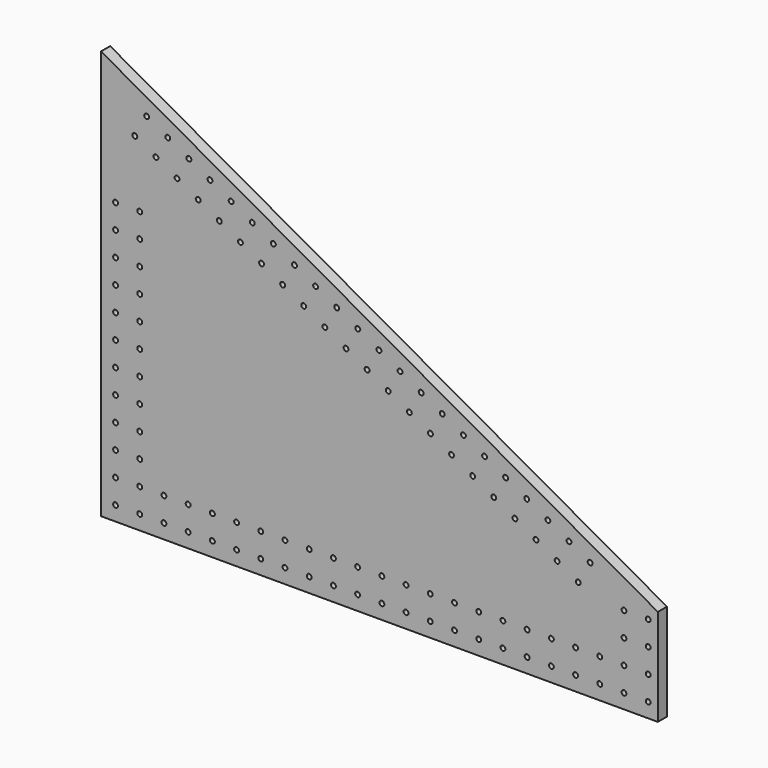
from build123d import *

# Parameters (mm, degrees)
F1_DEPTH = 12
F2_R     = 2.5527
F3_DEPTH = 508


with BuildPart() as f1:
    # F0 (on Front) → F1 (new body)
    with BuildSketch(Plane.XZ):
        Polygon((511.232538, -258.696949), (-72.967462, 69.018931), (-72.967462, -360.296949), (511.232538, -360.296949), align=None)
    extrude(amount=F1_DEPTH)

    # F2 (on face) → F3 (cut)
    with BuildSketch(Plane.XZ.offset(12)):
        with Locations((-57.714762, -345.044249)):
            Circle(F2_R)
        with Locations((-57.714762, -319.644249)):
            Circle(F2_R)
        with Locations((-57.714762, -294.244249)):
            Circle(F2_R)
        with Locations((-57.714762, -268.844249)):
            Circle(F2_R)
        with Locations((-57.714762, -243.444249)):
            Circle(F2_R)
        with Locations((-57.714762, -218.044249)):
            Circle(F2_R)
        with Locations((-57.714762, -192.644249)):
            Circle(F2_R)
        with Locations((-57.714762, -167.244249)):
            Circle(F2_R)
        with Locations((-57.714762, -141.844249)):
            Circle(F2_R)
        with Locations((-57.714762, -116.444249)):
            Circle(F2_R)
        with Locations((-57.714762, -91.044249)):
            Circle(F2_R)
        with Locations((-57.714762, -65.644249)):
            Circle(F2_R)
        with Locations((-32.314762, -345.044249)):
            Circle(F2_R)
        with Locations((-32.314762, -319.644249)):
            Circle(F2_R)
        with Locations((-32.314762, -294.244249)):
            Circle(F2_R)
        with Locations((-32.314762, -268.844249)):
            Circle(F2_R)
        with Locations((-32.314762, -243.444249)):
            Circle(F2_R)
        with Locations((-32.314762, -218.044249)):
            Circle(F2_R)
        with Locations((-32.314762, -192.644249)):
            Circle(F2_R)
        with Locations((-32.314762, -167.244249)):
            Circle(F2_R)
        with Locations((-32.314762, -141.844249)):
            Circle(F2_R)
        with Locations((-32.314762, -116.444249)):
            Circle(F2_R)
        with Locations((-32.314762, -91.044249)):
            Circle(F2_R)
        with Locations((-32.314762, -65.644249)):
            Circle(F2_R)
        with Locations((-6.914762, -319.644249)):
            Circle(F2_R)
        with Locations((-6.914762, -345.044249)):
            Circle(F2_R)
        with Locations((18.485238, -319.644249)):
            Circle(F2_R)
        with Locations((18.485238, -345.044249)):
            Circle(F2_R)
        with Locations((43.885238, -319.644249)):
            Circle(F2_R)
        with Locations((43.885238, -345.044249)):
            Circle(F2_R)
        with Locations((69.285238, -319.644249)):
            Circle(F2_R)
        with Locations((69.285238, -345.044249)):
            Circle(F2_R)
        with Locations((94.685238, -319.644249)):
            Circle(F2_R)
        with Locations((94.685238, -345.044249)):
            Circle(F2_R)
        with Locations((120.085238, -319.644249)):
            Circle(F2_R)
        with Locations((120.085238, -345.044249)):
            Circle(F2_R)
        with Locations((145.485238, -319.644249)):
            Circle(F2_R)
        with Locations((145.485238, -345.044249)):
            Circle(F2_R)
        with Locations((170.885238, -319.644249)):
            Circle(F2_R)
        with Locations((170.885238, -345.044249)):
            Circle(F2_R)
        with Locations((196.285238, -319.644249)):
            Circle(F2_R)
        with Locations((196.285238, -345.044249)):
            Circle(F2_R)
        with Locations((221.685238, -319.644249)):
            Circle(F2_R)
        with Locations((221.685238, -345.044249)):
            Circle(F2_R)
        with Locations((247.085238, -319.644249)):
            Circle(F2_R)
        with Locations((247.085238, -345.044249)):
            Circle(F2_R)
        with Locations((272.485238, -319.644249)):
            Circle(F2_R)
        with Locations((272.485238, -345.044249)):
            Circle(F2_R)
        with Locations((297.885238, -319.644249)):
            Circle(F2_R)
        with Locations((297.885238, -345.044249)):
            Circle(F2_R)
        with Locations((323.285238, -319.644249)):
            Circle(F2_R)
        with Locations((323.285238, -345.044249)):
            Circle(F2_R)
        with Locations((348.685238, -319.644249)):
            Circle(F2_R)
        with Locations((348.685238, -345.044249)):
            Circle(F2_R)
        with Locations((374.085238, -319.644249)):
            Circle(F2_R)
        with Locations((374.085238, -345.044249)):
            Circle(F2_R)
        with Locations((399.485238, -319.644249)):
            Circle(F2_R)
        with Locations((399.485238, -345.044249)):
            Circle(F2_R)
        with Locations((424.885238, -319.644249)):
            Circle(F2_R)
        with Locations((424.885238, -345.044249)):
            Circle(F2_R)
        with Locations((450.285238, -319.644249)):
            Circle(F2_R)
        with Locations((450.285238, -345.044249)):
            Circle(F2_R)
        with Locations((475.685238, -319.644249)):
            Circle(F2_R)
        with Locations((475.685238, -345.044249)):
            Circle(F2_R)
        with Locations((-25.048427, 24.649337)):
            Circle(F2_R)
        with Locations((-57.714762, 86.755751)):
            Circle(F2_R)
        with Locations((-32.314762, 86.755751)):
            Circle(F2_R)
        with Locations((501.085238, -319.644249)):
            Circle(F2_R)
        with Locations((501.085238, -345.044249)):
            Circle(F2_R)
        with Locations((-37.475226, 2.496806)):
            Circle(F2_R)
        with Locations((-2.895895, 12.222538)):
            Circle(F2_R)
        with Locations((-15.322695, -9.929994)):
            Circle(F2_R)
        with Locations((19.256636, -0.204262)):
            Circle(F2_R)
        with Locations((6.829836, -22.356794)):
            Circle(F2_R)
        with Locations((41.409168, -12.631062)):
            Circle(F2_R)
        with Locations((28.982368, -34.783593)):
            Circle(F2_R)
        with Locations((63.561699, -25.057861)):
            Circle(F2_R)
        with Locations((51.134899, -47.210393)):
            Circle(F2_R)
        with Locations((85.714231, -37.484661)):
            Circle(F2_R)
        with Locations((73.287431, -59.637192)):
            Circle(F2_R)
        with Locations((107.866762, -49.911461)):
            Circle(F2_R)
        with Locations((95.439962, -72.063992)):
            Circle(F2_R)
        with Locations((130.019294, -62.33826)):
            Circle(F2_R)
        with Locations((117.592494, -84.490792)):
            Circle(F2_R)
        with Locations((152.171825, -74.76506)):
            Circle(F2_R)
        with Locations((139.745025, -96.917591)):
            Circle(F2_R)
        with Locations((174.324356, -87.19186)):
            Circle(F2_R)
        with Locations((161.897557, -109.344391)):
            Circle(F2_R)
        with Locations((196.476888, -99.618659)):
            Circle(F2_R)
        with Locations((184.050088, -121.771191)):
            Circle(F2_R)
        with Locations((218.629419, -112.045459)):
            Circle(F2_R)
        with Locations((206.20262, -134.19799)):
            Circle(F2_R)
        with Locations((240.781951, -124.472258)):
            Circle(F2_R)
        with Locations((228.355151, -146.62479)):
            Circle(F2_R)
        with Locations((262.934482, -136.899058)):
            Circle(F2_R)
        with Locations((250.507683, -159.05159)):
            Circle(F2_R)
        with Locations((285.087014, -149.325858)):
            Circle(F2_R)
        with Locations((272.660214, -171.478389)):
            Circle(F2_R)
        with Locations((307.239545, -161.752657)):
            Circle(F2_R)
        with Locations((294.812746, -183.905189)):
            Circle(F2_R)
        with Locations((329.392077, -174.179457)):
            Circle(F2_R)
        with Locations((316.965277, -196.331988)):
            Circle(F2_R)
        with Locations((351.544608, -186.606257)):
            Circle(F2_R)
        with Locations((339.117809, -208.758788)):
            Circle(F2_R)
        with Locations((373.69714, -199.033056)):
            Circle(F2_R)
        with Locations((361.27034, -221.185588)):
            Circle(F2_R)
        with Locations((395.849671, -211.459856)):
            Circle(F2_R)
        with Locations((383.422872, -233.612387)):
            Circle(F2_R)
        with Locations((418.002203, -223.886656)):
            Circle(F2_R)
        with Locations((405.575403, -246.039187)):
            Circle(F2_R)
        with Locations((440.154734, -236.313455)):
            Circle(F2_R)
        with Locations((427.727935, -258.465987)):
            Circle(F2_R)
        with Locations((475.685238, -294.244249)):
            Circle(F2_R)
        with Locations((475.685238, -268.844249)):
            Circle(F2_R)
        with Locations((501.085238, -294.244249)):
            Circle(F2_R)
        with Locations((501.085238, -268.844249)):
            Circle(F2_R)
    extrude(amount=-F3_DEPTH, mode=Mode.SUBTRACT)


solid = f1.part
